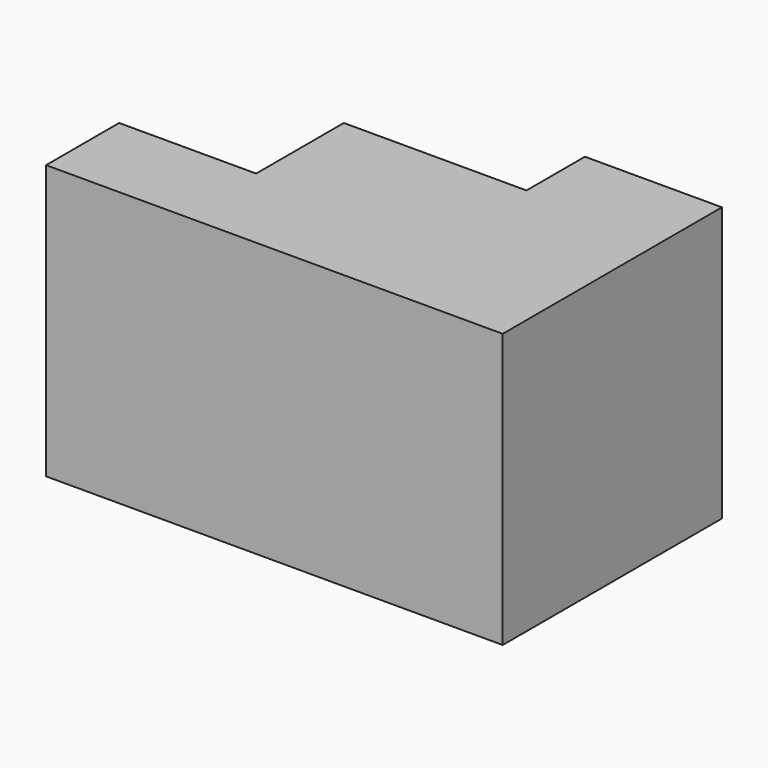
from build123d import *

# Parameters (mm, degrees)
F0_W     = 63.5
F0_H     = 38.1
F1_DEPTH = 38.1
F2_W     = 25.4
F2_H     = 10.16
F3_DEPTH = 10.16
F5_DEPTH = 25.4


with BuildPart() as f1:
    # F0 (on Front) → F1 (new body)
    with BuildSketch(Plane.XZ):
        Rectangle(F0_W, F0_H)
    extrude(amount=F1_DEPTH)

    # F2 (on face) → F3 (cut)
    with BuildSketch(Plane(origin=(0, 0, 0), x_dir=(-1, 0, 0), z_dir=(0, 1, 0))):
        with Locations((0, 13.97)):
            Rectangle(F2_W, F2_H)
        with Locations((0, -13.97)):
            Rectangle(F2_W, F2_H)
    extrude(amount=-F3_DEPTH, mode=Mode.SUBTRACT)

    # F4 (on face) → F5 (cut)
    with BuildSketch(Plane(origin=(0, 0, 0), x_dir=(-1, 0, 0), z_dir=(0, 1, 0))):
        Polygon((31.75, -19.05), (31.75, 19.05), (12.7, 19.05), (12.7, 8.89), (-12.7, 8.89), (-12.7, -8.89), (12.7, -8.89), (12.7, -19.05), align=None)
    extrude(amount=-F5_DEPTH, mode=Mode.SUBTRACT)


solid = f1.part
